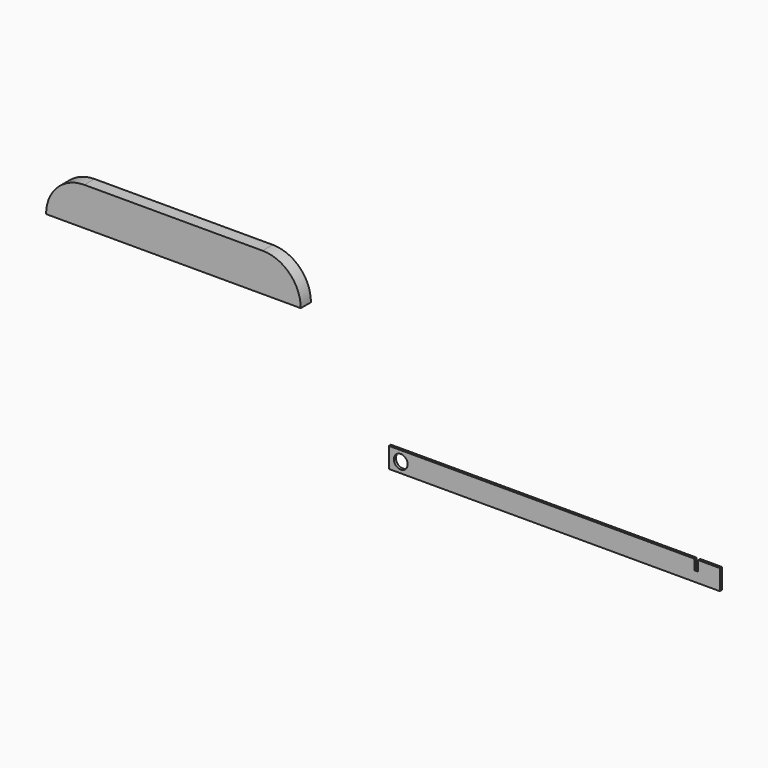
from build123d import *

# Parameters (mm, degrees)
F1_DEPTH = 5
F2_R     = 2.7
F3_DEPTH = 1


with BuildPart() as f1:
    # F0 (on Front) → F1 (new body)
    with BuildSketch(Plane.XZ):
        with BuildLine():
            ThreePointArc((-76.471449, 34.289809), (-87.078051, 29.896411), (-91.471449, 19.289809))
            Line((-91.471449, 19.289809), (8.528551, 19.289809))
            ThreePointArc((8.528551, 19.289809), (4.135153, 29.896411), (-6.471449, 34.289809))
            Line((-6.471449, 34.289809), (-76.471449, 34.289809))
        make_face()
    extrude(amount=F1_DEPTH)


with BuildPart() as f3:
    # F2 (on Front) → F3 (new body)
    with BuildSketch(Plane.XZ):
        Polygon((159.923573, -19.709916), (39.923573, -19.709916), (39.923573, -27.709916), (169.923573, -27.709916), (169.923573, -19.709916), (161.423573, -19.709916), (161.423573, -23.709916), (159.923573, -23.709916), align=None)
        with Locations((44.605345, -23.709916)):
            Circle(F2_R, mode=Mode.SUBTRACT)
    extrude(amount=F3_DEPTH)


solid = Compound([f1.part, f3.part])
